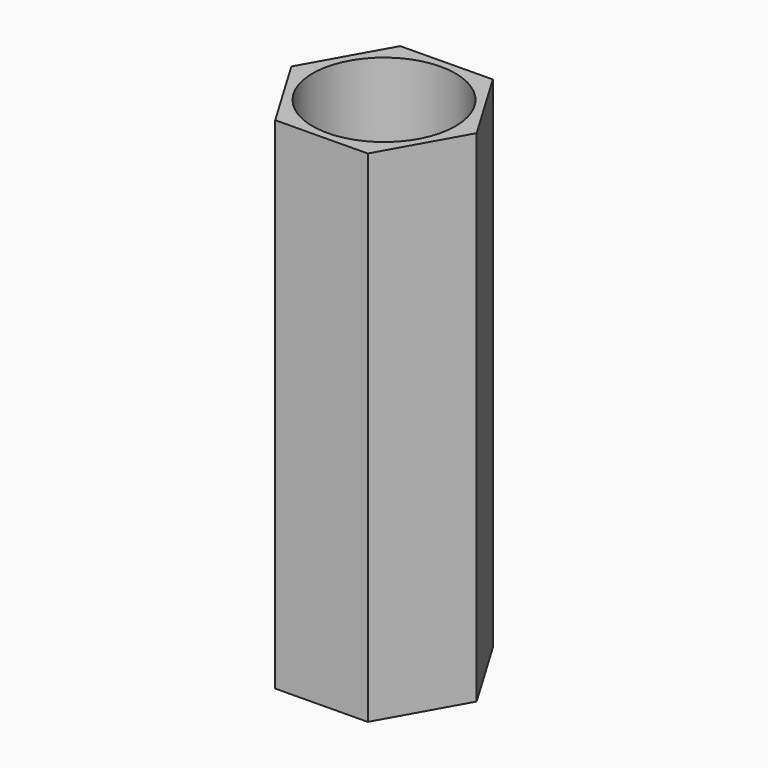
from build123d import *

# Parameters (mm, degrees)
F1_DEPTH = 35
F2_R     = 5
F3_DEPTH = 35


with BuildPart() as f1:
    # F0 (on Top) → F1 (new body)
    with BuildSketch(Plane.XY):
        Polygon((-3.278541, 5.513184), (-6.413828, -0.082708), (-3.135287, -5.595892), (3.278541, -5.513184), (6.413828, 0.082708), (3.135287, 5.595892), align=None)
    extrude(amount=F1_DEPTH)

    # F2 (on face) → F3 (cut)
    with BuildSketch(Plane.XY.offset(35)):
        Circle(F2_R)
        Circle(F2_R)
    extrude(amount=-F3_DEPTH, mode=Mode.SUBTRACT)


solid = f1.part
